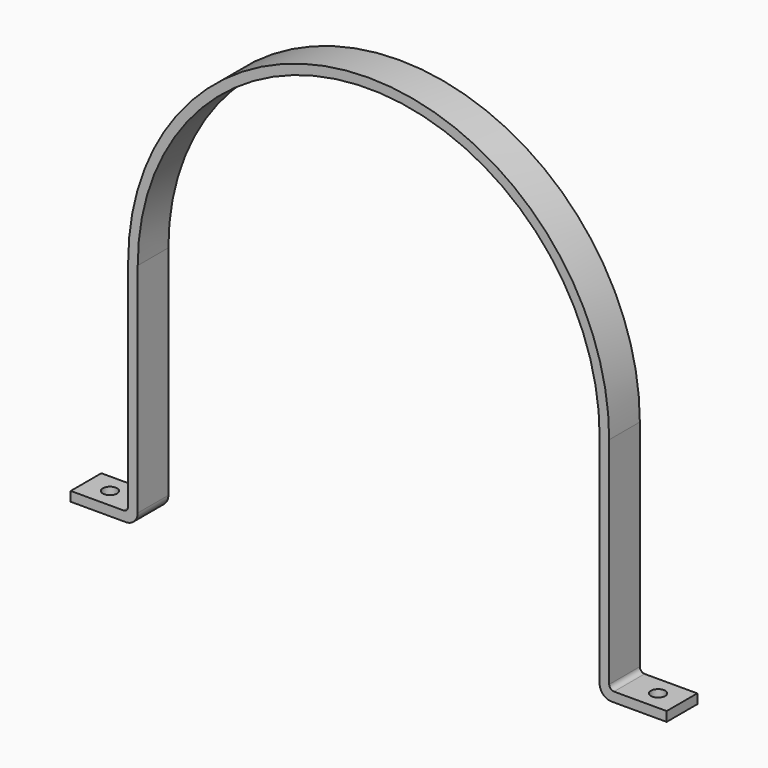
from build123d import *

# Parameters (mm, degrees)
F1_DEPTH = 25.4
F2_R     = 6.35
F3_R     = 15.875
F4_R     = 9.525
F5_DEPTH = 25.4


with BuildPart() as f1:
    # F0 (on Front) → F1 (new body, symmetric)
    with BuildSketch(Plane.XZ):
        with BuildLine():
            Line((306.3875, -304.8), (395.2875, -304.8))
            Line((395.2875, -304.8), (395.2875, -292.1))
            Line((395.2875, -292.1), (319.0875, -292.1))
            Line((319.0875, -292.1), (319.0875, 0))
            ThreePointArc((319.0875, 0), (0, 319.0875), (-319.0875, 0))
            Line((-319.0875, 0), (-319.0875, -292.1))
            Line((-319.0875, -292.1), (-395.2875, -292.1))
            Line((-395.2875, -292.1), (-395.2875, -304.8))
            Line((-395.2875, -304.8), (-306.3875, -304.8))
            Line((-306.3875, -304.8), (-306.3875, 0))
            ThreePointArc((-306.3875, 0), (0, 306.3875), (306.3875, 0))
            Line((306.3875, 0), (306.3875, -304.8))
        make_face()
    extrude(amount=F1_DEPTH, both=True)

    # F2
    f2_edges = [f1.edges().sort_by_distance(p)[0] for p in [
        (-319.0875, 0, -292.1),
        (319.0875, 0, -292.1),
    ]]
    fillet(f2_edges, radius=F2_R)

    # F3
    f3_edges = [f1.edges().sort_by_distance(p)[0] for p in [
        (306.3875, 0, -304.8),
        (-306.3875, 0, -304.8),
    ]]
    fillet(f3_edges, radius=F3_R)

    # F4 (on face) → F5 (cut)
    with BuildSketch(Plane(origin=(0, 0, -304.8), x_dir=(1, 0, 0), z_dir=(0, 0, -1))):
        with Locations((-363.5375, 0)):
            Circle(F4_R)
        with Locations((363.5375, 0)):
            Circle(F4_R)
    extrude(amount=-F5_DEPTH, mode=Mode.SUBTRACT)


solid = f1.part
